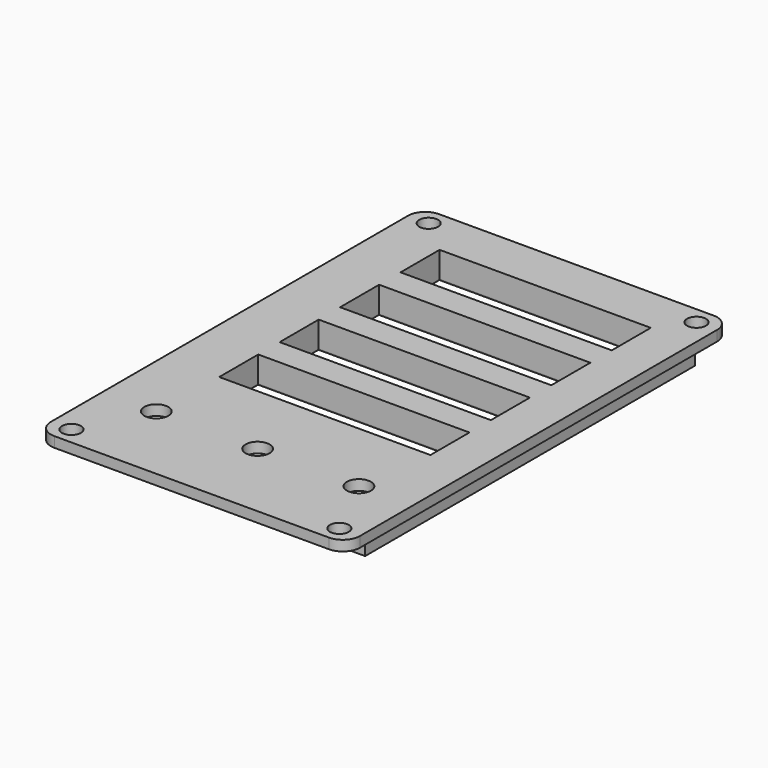
from build123d import *

# Parameters (mm, degrees)
SKETCH034_W   = 90
SKETCH034_H   = 140
SKETCH034_R   = 2.75
SKETCH034_R_2 = 3.5
SKETCH034_W_2 = 61.5
SKETCH034_H_2 = 14.2
PAD016_DEPTH  = 3
SKETCH033_W   = 85
SKETCH033_H   = 120
SKETCH033_W_2 = 82
SKETCH033_H_2 = 117
PAD017_DEPTH  = 5
SKETCH035_W   = 74
SKETCH035_H   = 85
SKETCH035_W_2 = 61.5
SKETCH035_H_2 = 14.2
PAD018_DEPTH  = 5
FILLET013_R   = 5
FILLET015_R   = 0.5


with BuildPart() as part:
    # Sketch034 → Pad016 (new body)
    with BuildSketch(Plane.XY):
        Rectangle(SKETCH034_W, SKETCH034_H)
        with Locations((-39, 65)):
            Circle(SKETCH034_R, mode=Mode.SUBTRACT)
        with Locations((39, 65)):
            Circle(SKETCH034_R, mode=Mode.SUBTRACT)
        with Locations((39, -65)):
            Circle(SKETCH034_R, mode=Mode.SUBTRACT)
        with Locations((-39, -65)):
            Circle(SKETCH034_R, mode=Mode.SUBTRACT)
        with Locations((-29.5, -46)):
            Circle(SKETCH034_R_2, mode=Mode.SUBTRACT)
        with Locations((0, -46)):
            Circle(SKETCH034_R_2, mode=Mode.SUBTRACT)
        with Locations((29.5, -46)):
            Circle(SKETCH034_R_2, mode=Mode.SUBTRACT)
        with Locations((1.85, 49.25)):
            Rectangle(SKETCH034_W_2, SKETCH034_H_2, mode=Mode.SUBTRACT)
        with Locations((1.85, 27.25)):
            Rectangle(SKETCH034_W_2, SKETCH034_H_2, mode=Mode.SUBTRACT)
        with Locations((1.85, 5.25)):
            Rectangle(SKETCH034_W_2, SKETCH034_H_2, mode=Mode.SUBTRACT)
        with Locations((1.85, -16.75)):
            Rectangle(SKETCH034_W_2, SKETCH034_H_2, mode=Mode.SUBTRACT)
    extrude(amount=PAD016_DEPTH)

    # Sketch033 (on Face28 of Pad016) → Pad017 (join)
    with BuildSketch(Plane(origin=(0, 0, 0), x_dir=(1, 0, 0), z_dir=(0, 0, -1))):
        Rectangle(SKETCH033_W, SKETCH033_H)
        Rectangle(SKETCH033_W_2, SKETCH033_H_2, mode=Mode.SUBTRACT)
    extrude(amount=PAD017_DEPTH)

    # Sketch035 (on Face35 of Pad017) → Pad018 (join)
    with BuildSketch(Plane(origin=(0, 0, 0), x_dir=(1, 0, 0), z_dir=(0, 0, -1))):
        with Locations((2, -16)):
            Rectangle(SKETCH035_W, SKETCH035_H)
        with Locations((1.85, -49.25)):
            Rectangle(SKETCH035_W_2, SKETCH035_H_2, mode=Mode.SUBTRACT)
        with Locations((1.85, 16.75)):
            Rectangle(SKETCH035_W_2, SKETCH035_H_2, mode=Mode.SUBTRACT)
        with Locations((1.85, -27.25)):
            Rectangle(SKETCH035_W_2, SKETCH035_H_2, mode=Mode.SUBTRACT)
        with Locations((1.85, -5.25)):
            Rectangle(SKETCH035_W_2, SKETCH035_H_2, mode=Mode.SUBTRACT)
    extrude(amount=PAD018_DEPTH)

    # Fillet013
    fillet013_edges = [part.edges().sort_by_distance(p)[0] for p in [
        (45, -70, 1.5),
        (-45, -70, 1.5),
        (-45, 70, 1.5),
        (45, 70, 1.5),
    ]]
    fillet(fillet013_edges, radius=FILLET013_R)

    # Fillet015
    fillet015_edges = [part.edges().sort_by_distance(p)[0] for p in [
        (1.85, 56.35, -5),
        (32.6, 49.25, -5),
        (-28.9, 49.25, -5),
        (1.85, 42.15, -5),
        (1.85, -9.65, -5),
        (32.6, -16.75, -5),
        (1.85, -23.85, -5),
        (-28.9, -16.75, -5),
        (1.85, 12.35, -5),
        (32.6, 5.25, -5),
        (1.85, -1.85, -5),
        (-28.9, 5.25, -5),
        (1.85, 34.35, -5),
        (-28.9, 27.25, -5),
        (1.85, 20.15, -5),
        (32.6, 27.25, -5),
    ]]
    fillet(fillet015_edges, radius=FILLET015_R)


solid = part.part
